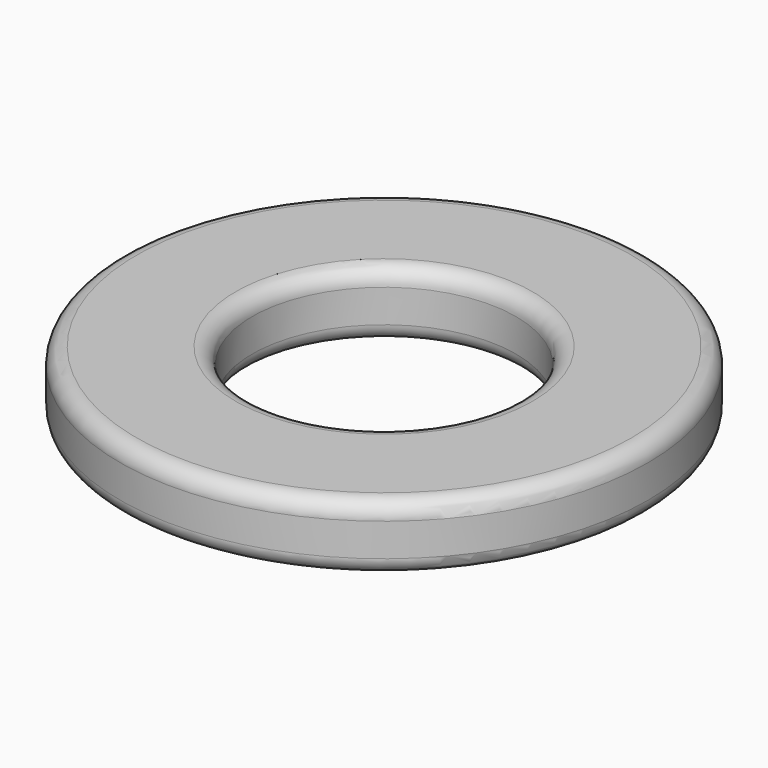
from build123d import *

# Parameters (mm, degrees)
F0_R     = 6.35
F0_R_2   = 3.175
F1_DEPTH = 1.5875
F2_R     = 0.396875


with BuildPart() as f1:
    # F0 (on Top) → F1 (new body)
    with BuildSketch(Plane.XY):
        Circle(F0_R)
        Circle(F0_R_2, mode=Mode.SUBTRACT)
    extrude(amount=F1_DEPTH)

    # F2
    f2_edges = [f1.edges().sort_by_distance(p)[0] for p in [
        (-6.35, 0, 0),
        (-3.175, 0, 0),
        (-3.175, 0, 1.5875),
        (3.175, 0, 0.79375),
        (-6.35, 0, 1.5875),
        (6.35, 0, 0.79375),
    ]]
    fillet(f2_edges, radius=F2_R)


solid = f1.part
